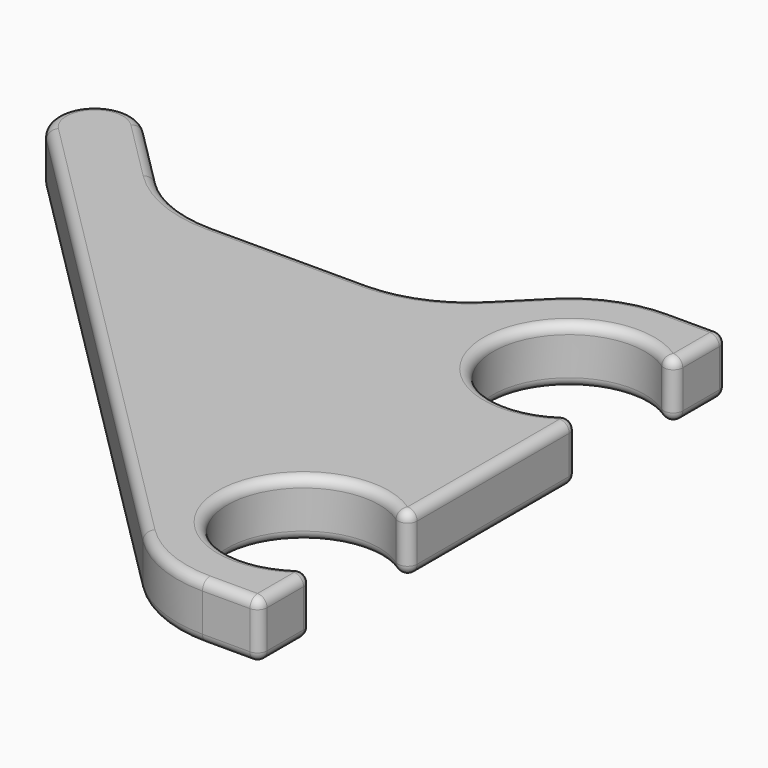
from build123d import *

# Parameters (mm, degrees)
PAD_DEPTH   = 6
FILLET_R    = 1
FILLET001_R = 1


with BuildPart() as part:
    # Sketch → Pad (new body)
    with BuildSketch(Plane.XY):
        with BuildLine():
            ThreePointArc((0, 22.791503), (-14, 17.5), (0, 12.208497))
            Line((0, -12.208497), (0, 12.208497))
            ThreePointArc((0, -12.208497), (-14, -17.5), (0, -22.791503))
            Line((0, -22.791503), (0, -30.791503))
            Line((0, -30.791503), (-6, -30.791503))
            ThreePointArc((-15.398512, -26.898512), (-11.086438, -29.779747), (-6, -30.791503))
            Line((-66.260099, 23.963075), (-15.398512, -26.898512))
            ThreePointArc((-60.603245, 29.61993), (-66.260099, 29.61993), (-66.260099, 23.963075))
            Line((-54.140169, 23.156854), (-60.603245, 29.61993))
            ThreePointArc((-54.140169, 23.156854), (-49.828095, 20.275619), (-44.741657, 19.263863))
            Line((-28.538681, 19.263863), (-44.741657, 19.263863))
            ThreePointArc((-28.538681, 19.263863), (-23.452243, 20.275619), (-19.140169, 23.156854))
            Line((-15.398512, 26.898512), (-19.140169, 23.156854))
            ThreePointArc((-6, 30.791503), (-11.086438, 29.779747), (-15.398512, 26.898512))
            Line((0, 30.791503), (-6, 30.791503))
            Line((0, 22.791503), (0, 30.791503))
        make_face()
    extrude(amount=PAD_DEPTH)

    # Fillet
    fillet_edges = [part.edges().sort_by_distance(p)[0] for p in [
        (0, 30.791503, 3),
        (0, -30.791503, 3),
        (0, 22.791503, 3),
        (0, 12.208497, 3),
        (0, -12.208497, 3),
        (0, -22.791503, 3),
    ]]
    fillet(fillet_edges, radius=FILLET_R)

    # Fillet001
    fillet001_edges = [part.edges().sort_by_distance(p)[0] for p in [
        (0, 27.387409, 6),
        (-0.528595, 24.101398, 6),
        (-0.292893, 30.498609, 6),
        (-14, 17.5, 6),
        (-3.5, 30.791503, 6),
        (-0.528595, 10.898602, 6),
        (-11.086438, 29.779747, 6),
        (0, 0, 6),
        (-17.26934, 25.027683, 6),
        (-0.528595, -10.898602, 6),
        (-23.452243, 20.275619, 6),
        (-14, -17.5, 6),
        (-36.640169, 19.263863, 6),
        (-0.528595, -24.101398, 6),
        (-49.828095, 20.275619, 6),
        (0, -27.387409, 6),
        (-57.371707, 26.388392, 6),
        (-0.292893, -30.498609, 6),
        (-66.260099, 29.61993, 6),
        (-3.5, -30.791503, 6),
        (-40.829305, -1.467718, 6),
        (-11.086438, -29.779747, 6),
        (0, 27.387409, 0),
        (-0.528595, 24.101398, 0),
        (-0.292893, 30.498609, 0),
        (-14, 17.5, 0),
        (-3.5, 30.791503, 0),
        (-0.528595, 10.898602, 0),
        (-11.086438, 29.779747, 0),
        (0, 0, 0),
        (-17.26934, 25.027683, 0),
        (-0.528595, -10.898602, 0),
        (-23.452243, 20.275619, 0),
        (-14, -17.5, 0),
        (-36.640169, 19.263863, 0),
        (-0.528595, -24.101398, 0),
        (-49.828095, 20.275619, 0),
        (0, -27.387409, 0),
        (-57.371707, 26.388392, 0),
        (-0.292893, -30.498609, 0),
        (-66.260099, 29.61993, 0),
        (-3.5, -30.791503, 0),
        (-40.829305, -1.467718, 0),
        (-11.086438, -29.779747, 0),
    ]]
    fillet(fillet001_edges, radius=FILLET001_R)


solid = part.part
